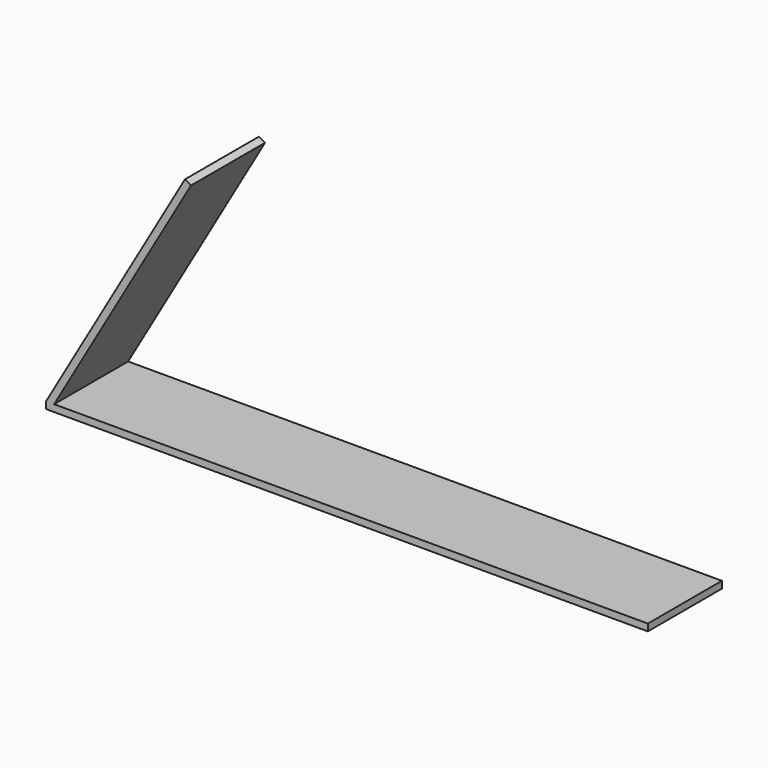
from build123d import *

# Parameters (mm, degrees)
F0_W     = 130
F0_H     = 1.5
F1_DEPTH = 10
F3_W     = 20
F3_H     = 60
F4_DEPTH = 1.5


with BuildPart() as f1:
    # F0 (on Front) → F1 (new body, symmetric)
    with BuildSketch(Plane.XZ):
        with Locations((65, 0.75)):
            Rectangle(F0_W, F0_H)
    extrude(amount=F1_DEPTH, both=True)

    # F3 (on face) → F4 (join)
    with BuildSketch(Plane(origin=(-0.649519, 0, 0.375), x_dir=(0, 1, 0), z_dir=(0.866025, 0, -0.5))):
        with Locations((0, 31.299038)):
            Rectangle(F3_W, F3_H)
    extrude(amount=F4_DEPTH)


solid = f1.part
